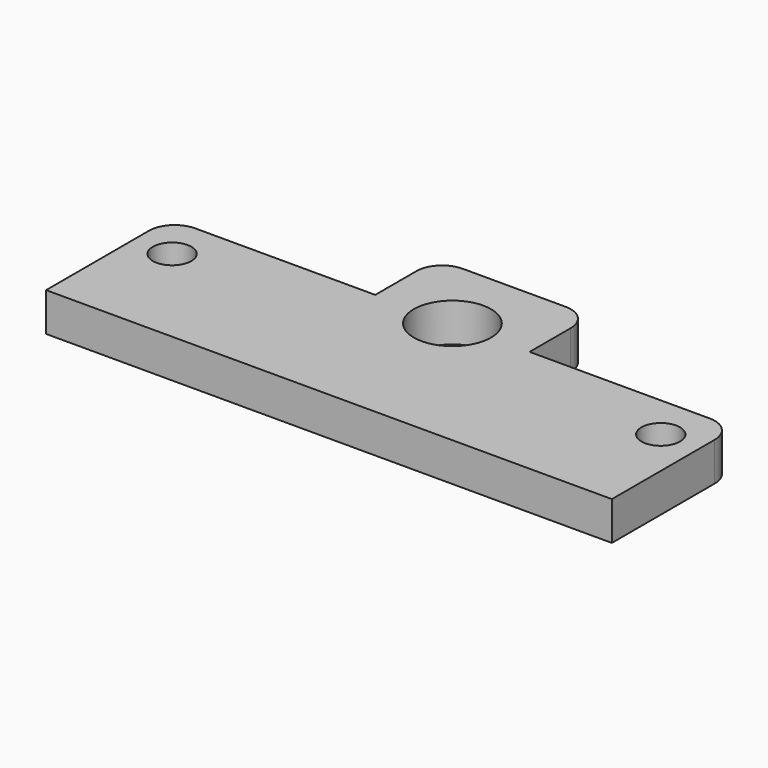
from build123d import *

# Parameters (mm, degrees)
F1_DEPTH = 3
F2_D     = 6
F3_D     = 3
F4_R     = 2


with BuildPart() as f1:
    # F0 (on Top) → F1 (new body)
    with BuildSketch(Plane.XY):
        Polygon((0, 12), (0, 0), (44, 0), (44, 12), (28, 12), (28, 18), (16, 18), (16, 12), align=None)
    extrude(amount=F1_DEPTH)

    # F2 (through all)
    with Locations(Plane(origin=(0, 0, 0), x_dir=(1, 0, 0), z_dir=(0, 0, -1))):
        with Locations((22, -12)):
            Hole(F2_D / 2)

    # F3 (through all)
    with Locations(Plane(origin=(0, 0, 0), x_dir=(1, 0, 0), z_dir=(0, 0, -1))):
        with Locations((3, -8.5), (41, -8.5)):
            Hole(F3_D / 2)

    # F4
    f4_edges = [f1.edges().sort_by_distance(p)[0] for p in [
        (28, 18, 1.5),
        (16, 18, 1.5),
        (44, 12, 1.5),
        (0, 12, 1.5),
    ]]
    fillet(f4_edges, radius=F4_R)


solid = f1.part
